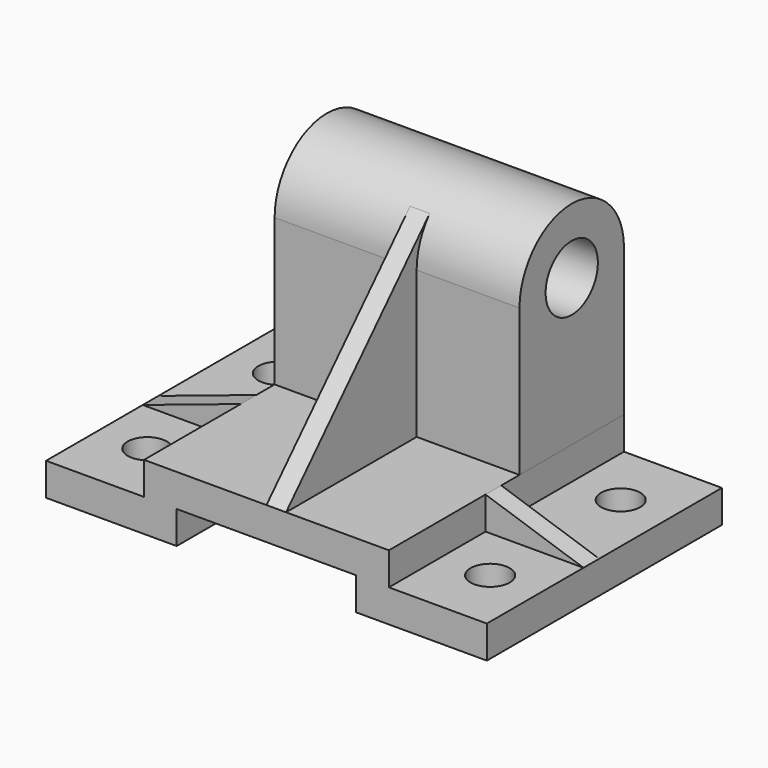
from build123d import *

# Parameters (mm, degrees)
F0_W      = 135
F0_H      = 90
F1_DEPTH  = 20
F2_W      = 55
F2_H      = 14.937833
F3_DEPTH  = 90
F4_W      = 35.29747
F4_H      = 17.323516
F5_DEPTH  = 37
F6_W      = 33.973107
F6_H      = 14.05538
F7_DEPTH  = 47
F9_DEPTH  = 6
F11_DEPTH = 75
F12_R     = 10
F13_DEPTH = 105.001
F14_R     = 6
F15_DEPTH = 10.001
F16_W     = 6
F16_H     = 55
F17_DEPTH = 65
F19_DEPTH = 6


with BuildPart() as f1:
    # F0 (on Top) → F1 (new body)
    with BuildSketch(Plane.XY):
        Rectangle(F0_W, F0_H)
    extrude(amount=F1_DEPTH)

    # F2 (on face) → F3 (cut, through all)
    with BuildSketch(Plane.XZ.offset(45)):
        with Locations((0, 2.531084)):
            Rectangle(F2_W, F2_H)
    extrude(amount=-F3_DEPTH, mode=Mode.SUBTRACT)

    # F4 (on face) → F5 (cut)
    with BuildSketch(Plane.XZ.offset(45)):
        with Locations((-55.148735, 18.661758)):
            Rectangle(F4_W, F4_H)
        with Locations((55.148735, 18.661758)):
            Rectangle(F4_W, F4_H)
    extrude(amount=-F5_DEPTH, mode=Mode.SUBTRACT)

    # F6 (on face) → F7 (cut)
    with BuildSketch(Plane(origin=(0, 45, 0), x_dir=(-1, 0, 0), z_dir=(0, 1, 0))):
        with Locations((-54.486553, 17.02769)):
            Rectangle(F6_W, F6_H)
        with Locations((54.486553, 17.02769)):
            Rectangle(F6_W, F6_H)
    extrude(amount=-F7_DEPTH, mode=Mode.SUBTRACT)

    # F8 (on face) → F9 (cut, through all)
    with BuildSketch(Plane.XZ.offset(8)):
        Polygon((-69.806829, 10), (-67.5, 10), (-37.5, 20), (-37.5, 24.232961), (-69.806829, 24.232961), align=None)
        Polygon((69.806829, 24.232961), (37.5, 24.232961), (37.5, 20), (67.5, 10), (69.806829, 10), align=None)
    extrude(amount=-F9_DEPTH, mode=Mode.SUBTRACT)

    # F10 (on face) → F11 (join, through all)
    with BuildSketch(Plane(origin=(-37.5, 0, 0), x_dir=(0, -1, 0), z_dir=(-1, 0, 0))):
        with BuildLine():
            Line((-45, 65), (-45, 20))
            Line((-45, 20), (-5, 20))
            Line((-5, 20), (-5, 65))
            ThreePointArc((-5, 65), (-25, 85), (-45, 65))
        make_face()
    extrude(amount=-F11_DEPTH)

    # F12 (on face) → F13 (cut, through all)
    with BuildSketch(Plane(origin=(-37.5, 0, 0), x_dir=(0, -1, 0), z_dir=(-1, 0, 0))):
        with Locations((-25, 65)):
            Circle(F12_R)
    extrude(amount=-F13_DEPTH, mode=Mode.SUBTRACT)

    # F14 (on face) → F15 (cut, through all)
    with BuildSketch(Plane.XY.offset(10)):
        with Locations((-52.5, -25)):
            Circle(F14_R)
        with Locations((-52.5, 25)):
            Circle(F14_R)
        with Locations((52.5, -25)):
            Circle(F14_R)
        with Locations((52.5, 25)):
            Circle(F14_R)
    extrude(amount=-F15_DEPTH, mode=Mode.SUBTRACT)

    # F16 (on face) → F17 (join)
    with BuildSketch(Plane.XY.offset(20)):
        with Locations((3, -17.5)):
            Rectangle(F16_W, F16_H)
    extrude(amount=F17_DEPTH)

    # F18 (on face) → F19 (cut)
    with BuildSketch(Plane(origin=(0, 0, 0), x_dir=(0, -1, 0), z_dir=(-1, 0, 0))):
        Polygon((-10, 78.228757), (45, 20), (45, 85), (-10, 85), align=None)
    extrude(amount=-F19_DEPTH, mode=Mode.SUBTRACT)


solid = f1.part
